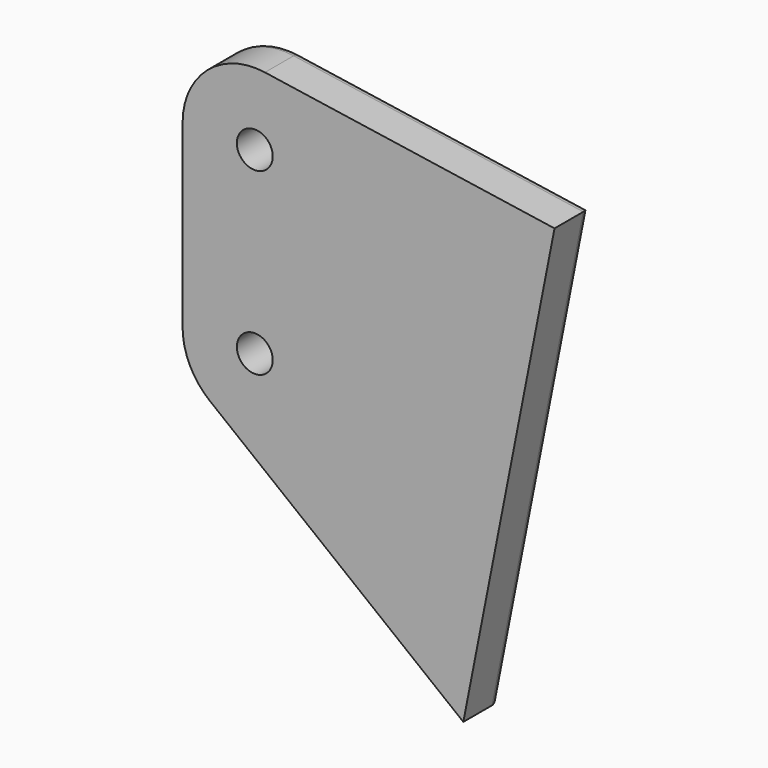
from build123d import *

# Parameters (mm, degrees)
PAD004_DEPTH    = 2.5
SKETCH011_R     = 1
POCKET002_DEPTH = 3
FILLET_R        = 0.5


with BuildPart() as part:
    # Sketch006 → Pad004 (new body)
    with BuildSketch(Plane(origin=(43, -2, 9), x_dir=(1, 0, 0), z_dir=(0, 1, 0))):
        with BuildLine():
            Line((71.624302, 34.297205), (57.4953, 23.139806))
            ThreePointArc((57.4953, 23.139806), (56.374461, 21.744531), (55.974277, 20.000133))
            Line((55.974277, 20.000133), (55.975425, 9.975673))
            ThreePointArc((55.975425, 9.975673), (57.363966, 6.946234), (60.565113, 6.019837))
            Line((60.565113, 6.019837), (76.707381, 8.42585))
            Line((76.707381, 8.42585), (71.624302, 34.297205))
        make_face()
    extrude(amount=PAD004_DEPTH)

    # Sketch011 → Pocket002 (cut)
    with BuildSketch(Plane(origin=(43, 0.5, 9), x_dir=(1, 0, 0), z_dir=(0, 1, 0))):
        with Locations((60, 20)):
            Circle(SKETCH011_R)
        with Locations((60, 10)):
            Circle(SKETCH011_R)
    extrude(amount=-POCKET002_DEPTH, mode=Mode.SUBTRACT)

    # Fillet
    fillet_edges = [part.edges().sort_by_distance(p)[0] for p in [
        (107.559801, 0.5, -19.718506),
        (117.165842, 0.5, -12.361528),
        (99.374461, 0.5, -12.744531),
        (111.636247, 0.5, 1.777156),
        (98.974851, 0.5, -5.987903),
        (100.363966, 0.5, 2.053766),
        (102, 0.5, -1),
        (102, 0.5, -11),
    ]]
    fillet(fillet_edges, radius=FILLET_R)


solid = part.part
